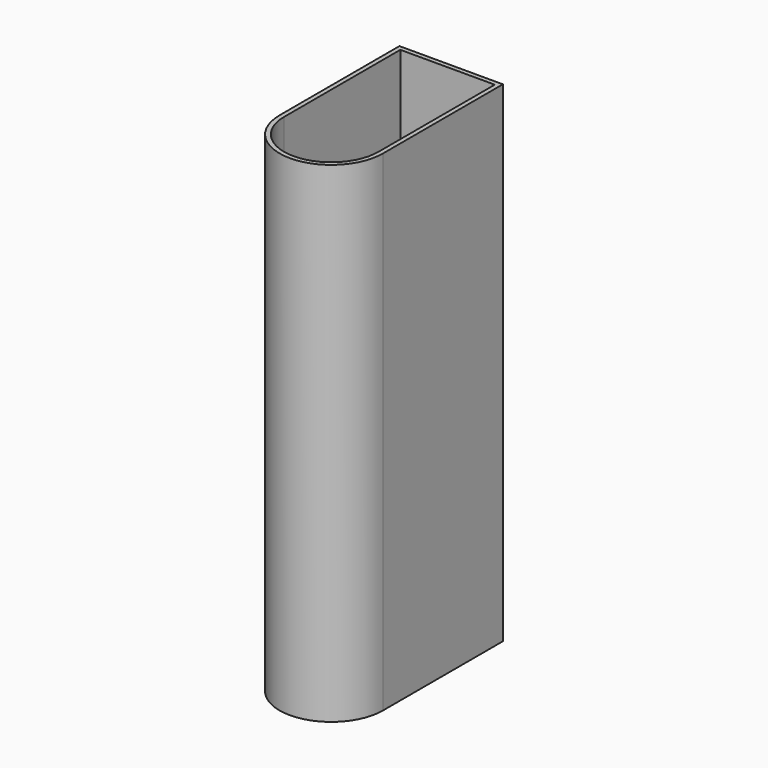
from build123d import *

# Parameters (mm, degrees)
F2_DEPTH = 329


with BuildPart() as f2:
    # F1 (on Top) → F2 (new body)
    with BuildSketch(Plane.XY):
        with BuildLine():
            Line((34.686533, 111), (-34.686533, 111))
            Line((-34.686533, 111), (-34.686533, 10.5))
            ThreePointArc((-34.686533, 10.5), (0, -24.186533), (34.686533, 10.5))
            Line((34.686533, 10.5), (34.686533, 111))
        make_face()
        with BuildLine():
            Line((-31.686533, 10.5), (-31.686533, 108))
            Line((-31.686533, 108), (31.686533, 108))
            Line((31.686533, 108), (31.686533, 10.5))
            ThreePointArc((31.686533, 10.5), (0, -21.186533), (-31.686533, 10.5))
        make_face(mode=Mode.SUBTRACT)
    extrude(amount=F2_DEPTH)


solid = f2.part
